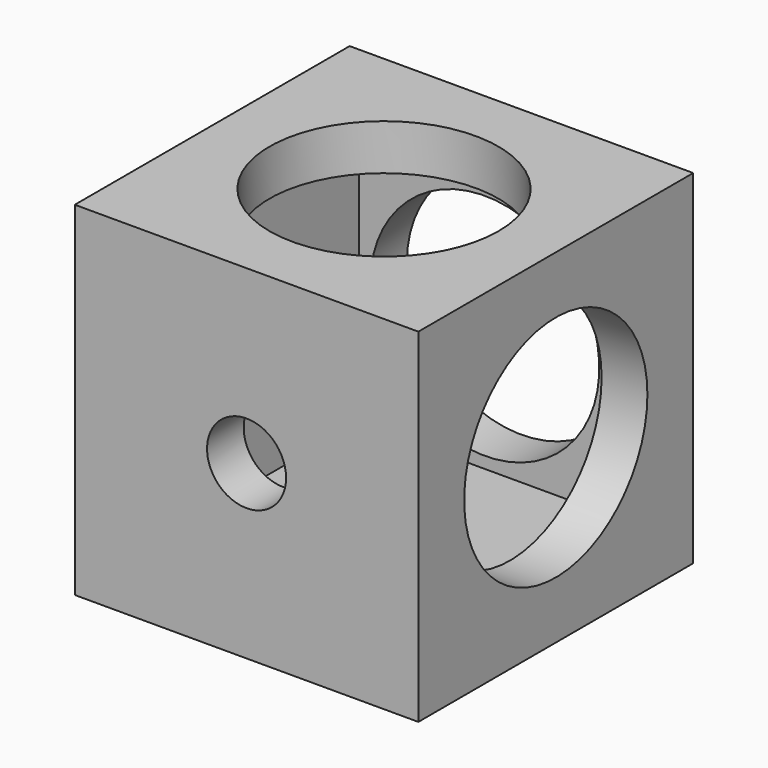
from build123d import *

# Parameters (mm, degrees)
F0_W      = 15
F0_H      = 15
F1_DEPTH  = 15
F2_W      = 11
F2_H      = 11
F3_DEPTH  = 11
F6_R      = 1.725
F7_DEPTH  = 2
F8_R      = 1.725
F9_DEPTH  = 2
F10_R     = 1.725
F11_DEPTH = 2
F12_R     = 5
F13_DEPTH = 7.5
F14_R     = 5
F15_DEPTH = 7.5
F16_R     = 5
F17_DEPTH = 7.5
F18_R     = 3.5
F19_DEPTH = 13
F20_R     = 3.5
F21_DEPTH = 13
F22_R     = 3.5
F23_DEPTH = 13
F24_R     = 1.725
F25_DEPTH = 0.2


with BuildPart() as f1:
    # F0 (on Top) → F1 (new body)
    with BuildSketch(Plane.XY):
        with Locations((7.5, 7.5)):
            Rectangle(F0_W, F0_H)
    extrude(amount=F1_DEPTH)


with BuildPart() as f3:
    # F2 (on Top) → F3 (new body)
    with BuildSketch(Plane.XY):
        with Locations((7.5, 7.5)):
            Rectangle(F2_W, F2_H)
    extrude(amount=F3_DEPTH)


with BuildPart() as f3_1:
    # F4: moved
    add(f3.part.moved(Location((0, 0, 2))))


with BuildPart() as f1_1:
    add(f1.part)

    # F5: cut F3
    add(f3_1.part, mode=Mode.SUBTRACT)

    # F6 (on face) → F7 (cut, through all)
    with BuildSketch(Plane.XZ):
        with Locations((7.5, 7.5)):
            Circle(F6_R)
    extrude(amount=-F7_DEPTH, mode=Mode.SUBTRACT)

    # F8 (on face) → F9 (cut, through all)
    with BuildSketch(Plane(origin=(0, 0, 0), x_dir=(0, -1, 0), z_dir=(-1, 0, 0))):
        with Locations((-7.5, 7.5)):
            Circle(F8_R)
    extrude(amount=-F9_DEPTH, mode=Mode.SUBTRACT)

    # F10 (on face) → F11 (cut, through all)
    with BuildSketch(Plane(origin=(0, 0, 0), x_dir=(1, 0, 0), z_dir=(0, 0, -1))):
        with Locations((7.5, -7.5)):
            Circle(F10_R)
    extrude(amount=-F11_DEPTH, mode=Mode.SUBTRACT)

    # F12 (on face) → F13 (cut)
    with BuildSketch(Plane(origin=(0, 15, 0), x_dir=(-1, 0, 0), z_dir=(0, 1, 0))):
        with Locations((-7.5, 7.5)):
            Circle(F12_R)
    extrude(amount=-F13_DEPTH, mode=Mode.SUBTRACT)

    # F14 (on face) → F15 (cut)
    with BuildSketch(Plane.YZ.offset(15)):
        with Locations((7.5, 7.5)):
            Circle(F14_R)
    extrude(amount=-F15_DEPTH, mode=Mode.SUBTRACT)

    # F16 (on face) → F17 (cut)
    with BuildSketch(Plane.XY.offset(15)):
        with Locations((7.5, 7.5)):
            Circle(F16_R)
    extrude(amount=-F17_DEPTH, mode=Mode.SUBTRACT)

    # F18 (on face) → F19 (cut)
    with BuildSketch(Plane(origin=(0, 15, 0), x_dir=(-1, 0, 0), z_dir=(0, 1, 0))):
        with Locations((-7.5, 7.5)):
            Circle(F18_R)
    extrude(amount=-F19_DEPTH, mode=Mode.SUBTRACT)

    # F20 (on face) → F21 (cut)
    with BuildSketch(Plane.YZ.offset(15)):
        with Locations((7.5, 7.5)):
            Circle(F20_R)
    extrude(amount=-F21_DEPTH, mode=Mode.SUBTRACT)

    # F22 (on face) → F23 (cut)
    with BuildSketch(Plane.XY.offset(15)):
        with Locations((7.5, 7.5)):
            Circle(F22_R)
    extrude(amount=-F23_DEPTH, mode=Mode.SUBTRACT)

    # F24 (on face) → F25 (join)
    with BuildSketch(Plane.XY.offset(2)):
        with Locations((7.5, 7.5)):
            Circle(F24_R)
    extrude(amount=-F25_DEPTH)


solid = f1_1.part
